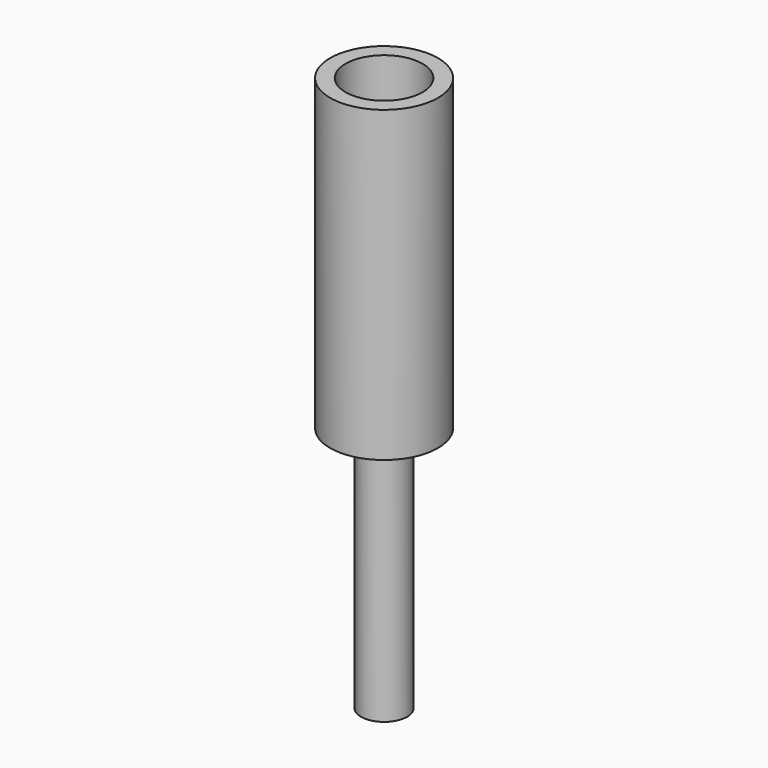
from build123d import *

# Parameters (mm, degrees)
F0_R     = 0.4445
F0_R_2   = 0.3175
F1_DEPTH = 1.905
F2_R     = 0.4445
F3_DEPTH = 0.635
F4_R     = 0.1905
F5_DEPTH = 2.032


with BuildPart() as f1:
    # F0 (on Top) → F1 (new body)
    with BuildSketch(Plane.XY):
        Circle(F0_R)
        Circle(F0_R_2, mode=Mode.SUBTRACT)
    extrude(amount=-F1_DEPTH)

    # F2 (on face) → F3 (join)
    with BuildSketch(Plane(origin=(0, 0, -1.905), x_dir=(1, 0, 0), z_dir=(0, 0, -1))):
        Circle(F2_R)
    extrude(amount=F3_DEPTH)

    # F4 (on face) → F5 (join)
    with BuildSketch(Plane(origin=(0, 0, -2.54), x_dir=(1, 0, 0), z_dir=(0, 0, -1))):
        Circle(F4_R)
    extrude(amount=F5_DEPTH)


solid = f1.part
